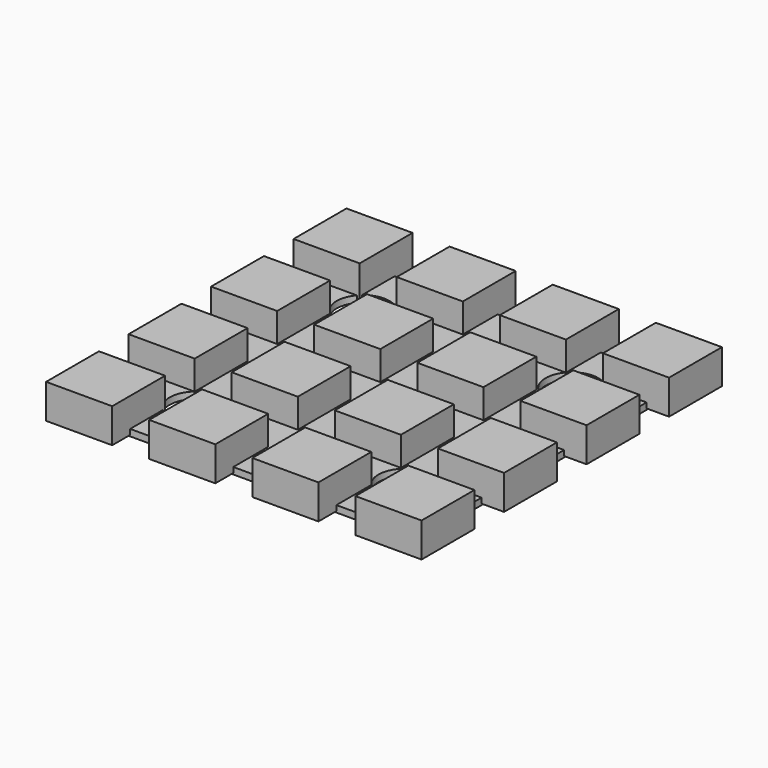
from build123d import *

# Parameters (mm, degrees)
SKETCH008_W                     = 25
SKETCH008_H                     = 25
SKETCH008_R                     = 2
PAD007_DEPTH                    = 0.5
SKETCH009_W                     = 5
SKETCH009_H                     = 5
PAD008_DEPTH                    = 2.6
SKETCH009_LINEARPATTERN008_2_W  = 5
SKETCH009_LINEARPATTERN008_2_H  = 5
PAD008_LINEARPATTERN008_2_DEPTH = 2.6
SKETCH009_LINEARPATTERN008_3_W  = 5
SKETCH009_LINEARPATTERN008_3_H  = 5
PAD008_LINEARPATTERN008_3_DEPTH = 2.6
SKETCH009_LINEARPATTERN008_4_W  = 5
SKETCH009_LINEARPATTERN008_4_H  = 5
PAD008_LINEARPATTERN008_4_DEPTH = 2.6
LINEARPATTERN007_COUNT          = 4
LINEARPATTERN007_PITCH          = 7.8


with BuildPart() as part:
    # Sketch008 → Pad007 (new body)
    with BuildSketch(Plane.XY.offset(0.5)):
        Rectangle(SKETCH008_W, SKETCH008_H)
        with Locations((-7.9, 7.9)):
            Circle(SKETCH008_R, mode=Mode.SUBTRACT)
        with Locations((7.9, 7.9)):
            Circle(SKETCH008_R, mode=Mode.SUBTRACT)
        with Locations((7.9, -7.9)):
            Circle(SKETCH008_R, mode=Mode.SUBTRACT)
        with Locations((-7.9, -7.9)):
            Circle(SKETCH008_R, mode=Mode.SUBTRACT)
    extrude(amount=PAD007_DEPTH)

    # Sketch009 → Pad008 (join)
    with BuildSketch(Plane.XY.offset(3.2)):
        with Locations((-11.7, -11.7)):
            Rectangle(SKETCH009_W, SKETCH009_H)
    pad008 = extrude(amount=-PAD008_DEPTH)

    # Sketch009 LinearPattern008 2 → Pad008 LinearPattern008 2 (add)
    with BuildSketch(Plane(origin=(7.8, 0, 3.2), x_dir=(1, 0, 0), z_dir=(0, 0, 1))):
        with Locations((-11.7, -11.7)):
            Rectangle(SKETCH009_LINEARPATTERN008_2_W, SKETCH009_LINEARPATTERN008_2_H)
    pad008_linearpattern008_2 = extrude(amount=-PAD008_LINEARPATTERN008_2_DEPTH)

    # Sketch009 LinearPattern008 3 → Pad008 LinearPattern008 3 (add)
    with BuildSketch(Plane(origin=(15.6, 0, 3.2), x_dir=(1, 0, 0), z_dir=(0, 0, 1))):
        with Locations((-11.7, -11.7)):
            Rectangle(SKETCH009_LINEARPATTERN008_3_W, SKETCH009_LINEARPATTERN008_3_H)
    pad008_linearpattern008_3 = extrude(amount=-PAD008_LINEARPATTERN008_3_DEPTH)

    # Sketch009 LinearPattern008 4 → Pad008 LinearPattern008 4 (add)
    with BuildSketch(Plane(origin=(23.4, 0, 3.2), x_dir=(1, 0, 0), z_dir=(0, 0, 1))):
        with Locations((-11.7, -11.7)):
            Rectangle(SKETCH009_LINEARPATTERN008_4_W, SKETCH009_LINEARPATTERN008_4_H)
    pad008_linearpattern008_4 = extrude(amount=-PAD008_LINEARPATTERN008_4_DEPTH)

    # LinearPattern007: Pad008, Pad008 LinearPattern008 2, Pad008 LinearPattern008 3, Pad008 LinearPattern008 4 ×4
    with Locations(*[(0, i * LINEARPATTERN007_PITCH, 0) for i in range(1, LINEARPATTERN007_COUNT)]):
        add(pad008)
        add(pad008_linearpattern008_2)
        add(pad008_linearpattern008_3)
        add(pad008_linearpattern008_4)


solid = part.part
